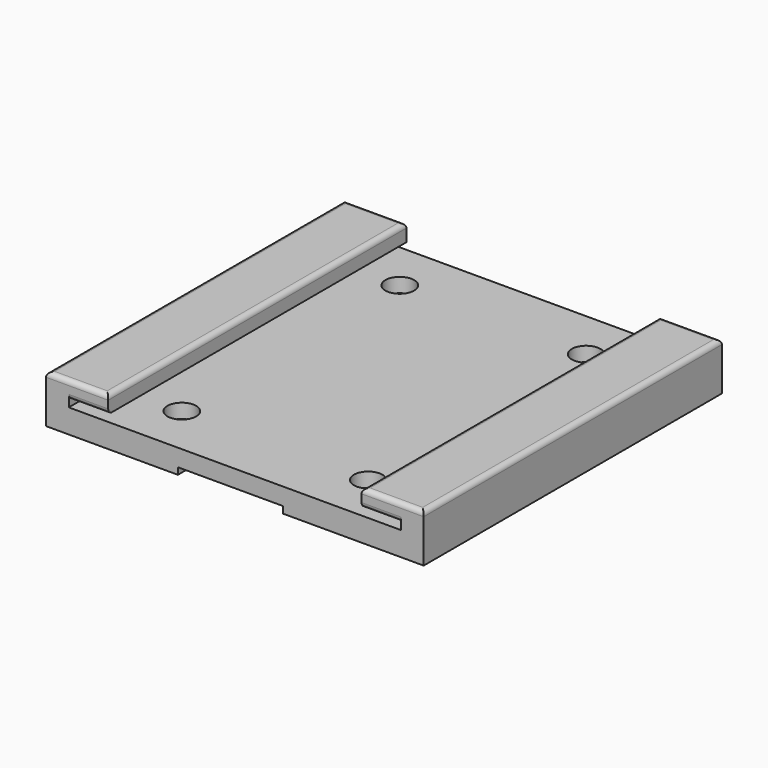
from build123d import *

# Parameters (mm, degrees)
F0_W      = 79
F0_H      = 78
F1_DEPTH  = 5
F2_W      = 13
F2_H      = 78
F3_DEPTH  = 5
F4_W      = 8.25
F4_H      = 1.4
F5_DEPTH  = 78.001
F6_R      = 1.5
F7_DEPTH  = 30
F8_R      = 3
F9_DEPTH  = 3
F10_W     = 22
F10_H     = 1.4
F11_DEPTH = 25
F12_R     = 1


with BuildPart() as f1:
    # F0 (on Top) → F1 (new body)
    with BuildSketch(Plane.XY):
        with Locations((2.279855, 9.696156)):
            Rectangle(F0_W, F0_H)
    extrude(amount=F1_DEPTH)

    # F2 (on face) → F3 (join)
    with BuildSketch(Plane.XY.offset(5)):
        with Locations((-30.720145, 9.696156)):
            Rectangle(F2_W, F2_H)
        with Locations((35.279855, 9.696156)):
            Rectangle(F2_W, F2_H)
    extrude(amount=F3_DEPTH)

    # F4 (on face) → F5 (cut, through all)
    with BuildSketch(Plane.XZ.offset(29.303844)):
        with Locations((-28.345145, 5.7)):
            Rectangle(F4_W, F4_H)
        with Locations((32.904855, 5.7)):
            Rectangle(F4_W, F4_H)
    extrude(amount=-F5_DEPTH, mode=Mode.SUBTRACT)

    # F6 (on face) → F7 (cut)
    with BuildSketch(Plane.XY.offset(5)):
        with Locations((-17.220145, 38.196156)):
            Circle(F6_R)
        with Locations((21.779855, 38.196156)):
            Circle(F6_R)
        with Locations((-17.220145, -18.803844)):
            Circle(F6_R)
        with Locations((21.779855, -18.803844)):
            Circle(F6_R)
    extrude(amount=-F7_DEPTH, mode=Mode.SUBTRACT)

    # F8 (on face) → F9 (cut)
    with BuildSketch(Plane.XY.offset(5)):
        with Locations((-17.220145, 38.196156)):
            Circle(F8_R)
        with Locations((21.779855, 38.196156)):
            Circle(F8_R)
        with Locations((-17.220145, -18.803844)):
            Circle(F8_R)
        with Locations((21.779855, -18.803844)):
            Circle(F8_R)
    extrude(amount=-F9_DEPTH, mode=Mode.SUBTRACT)

    # F10 (on face) → F11 (cut)
    with BuildSketch(Plane.XZ.offset(29.303844)):
        with Locations((1.356391, 0.7)):
            Rectangle(F10_W, F10_H)
    extrude(amount=-F11_DEPTH, mode=Mode.SUBTRACT)

    # F12
    f12_edges = [f1.edges().sort_by_distance(p)[0] for p in [
        (-24.220145, 9.696156, 10),
        (28.779855, 9.696156, 10),
        (35.279855, -29.303844, 10),
        (-30.720145, -29.303844, 10),
        (-30.720145, 48.696156, 10),
        (35.279855, 48.696156, 10),
        (32.904855, -29.303844, 6.4),
        (-28.345145, -29.303844, 6.4),
        (41.779855, 9.696156, 10),
        (-37.220145, 9.696156, 10),
    ]]
    fillet(f12_edges, radius=F12_R)


solid = f1.part
